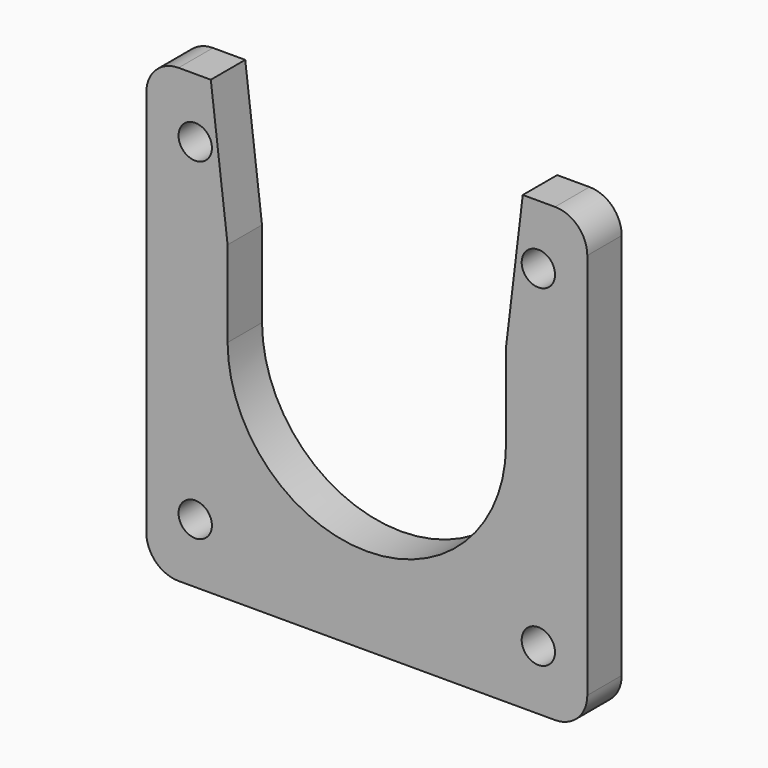
from build123d import *

# Parameters (mm, degrees)
F0_R     = 1.55
F1_DEPTH = 4


with BuildPart() as f1:
    # F0 (on Front) → F1 (new body)
    with BuildSketch(Plane.XZ):
        with BuildLine():
            Line((-14.5, 21), (-17.5, 21))
            ThreePointArc((-17.5, 21), (-19.62132, 20.12132), (-20.5, 18))
            Line((-20.5, 18), (-20.5, -18))
            ThreePointArc((-20.5, -18), (-19.62132, -20.12132), (-17.5, -21))
            Line((-17.5, -21), (17.5, -21))
            ThreePointArc((17.5, -21), (19.62132, -20.12132), (20.5, -18))
            Line((20.5, -18), (20.5, 18))
            ThreePointArc((20.5, 18), (19.62132, 20.12132), (17.5, 21))
            Line((17.5, 21), (14.5, 21))
            Line((14.5, 21), (12.94, 8))
            Line((12.94, 8), (12.94, 0))
            ThreePointArc((12.94, 0), (0, -12.882147), (-12.94, 0))
            Line((-12.94, 0), (-12.94, 8))
            Line((-12.94, 8), (-14.5, 21))
        make_face()
        with Locations((-15.95, -15.45)):
            Circle(F0_R, mode=Mode.SUBTRACT)
        with Locations((15.95, -15.45)):
            Circle(F0_R, mode=Mode.SUBTRACT)
        with Locations((-15.95, 15.45)):
            Circle(F0_R, mode=Mode.SUBTRACT)
        with Locations((15.95, 15.45)):
            Circle(F0_R, mode=Mode.SUBTRACT)
    extrude(amount=F1_DEPTH)


solid = f1.part
